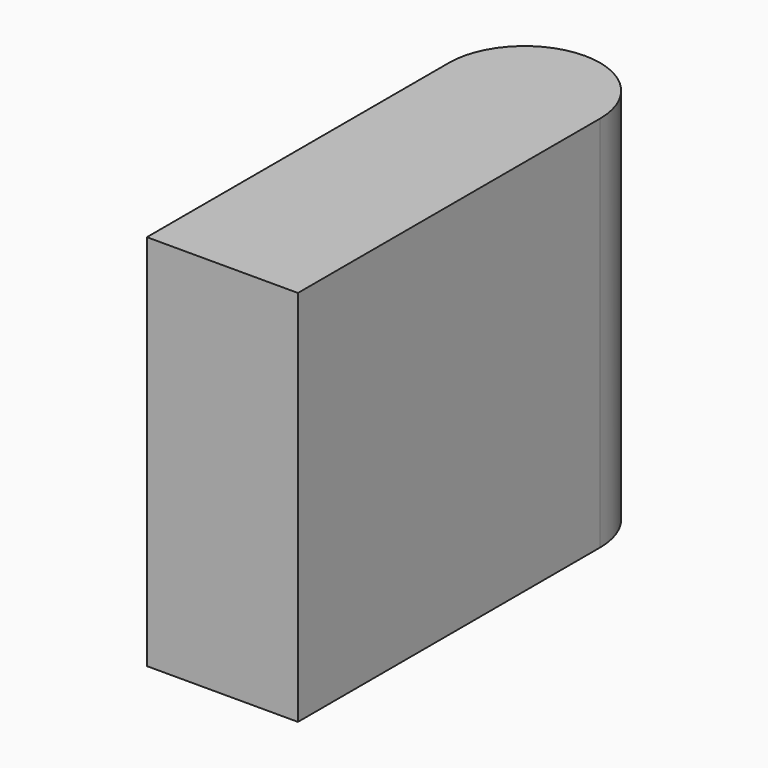
from build123d import *

# Parameters (mm, degrees)
F1_DEPTH = 25


with BuildPart() as f1:
    # F0 (on Top) → F1 (new body)
    with BuildSketch(Plane.XY):
        with BuildLine():
            Line((-5, -15), (5, -15))
            Line((5, -15), (5, 10))
            ThreePointArc((5, 10), (3.535534, 13.535534), (0, 15))
            ThreePointArc((0, 15), (-3.535534, 13.535534), (-5, 10))
            Line((-5, 10), (-5, -15))
        make_face()
    extrude(amount=F1_DEPTH)


solid = f1.part
